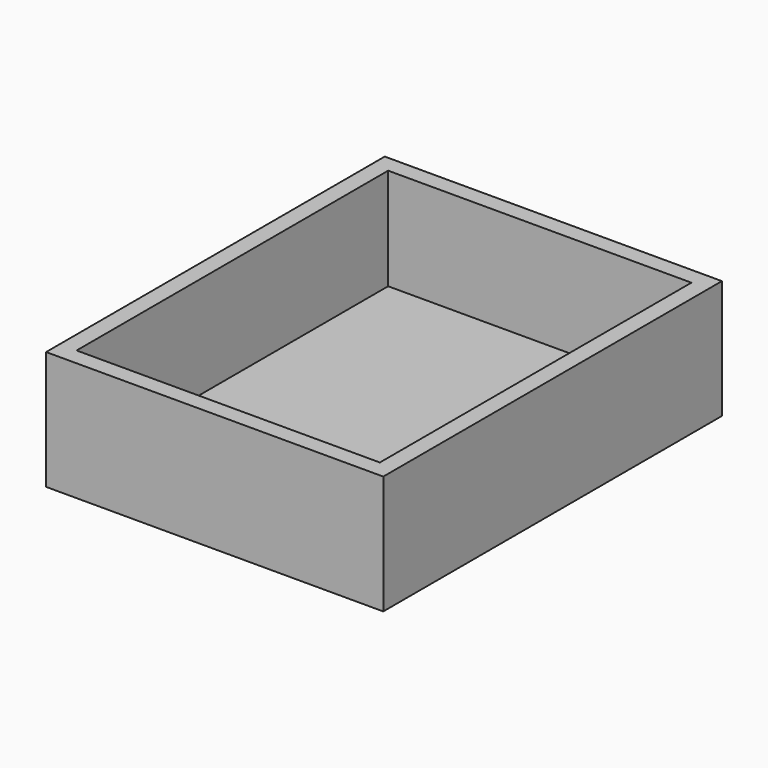
from build123d import *

# Parameters (mm, degrees)
F0_W     = 44.7
F0_H     = 57.4
F1_DEPTH = 15
F2_T     = 2.5


with BuildPart() as f1:
    # F0 (on Top) → F1 (new body)
    with BuildSketch(Plane.XY):
        Rectangle(F0_W, F0_H)
    extrude(amount=F1_DEPTH)

    # F2
    f2_openings = [f1.faces().sort_by_distance(p)[0] for p in [
        (0, 0, 15),
    ]]
    offset(amount=F2_T, openings=f2_openings, kind=Kind.INTERSECTION)


solid = f1.part
